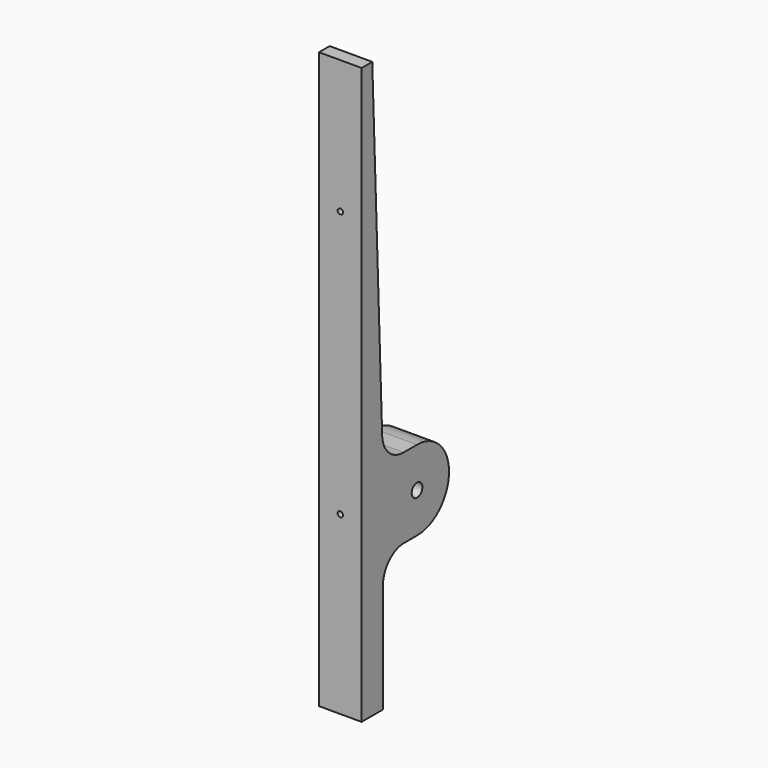
from build123d import *

# Parameters (mm, degrees)
F0_R     = 2.5
F1_DEPTH = 8
F2_R     = 1
F3_DEPTH = 26.001


with BuildPart() as f1:
    # F0 (on Right) → F1 (new body, symmetric)
    with BuildSketch(Plane.YZ):
        with BuildLine():
            Line((-26, -66), (-16, -66))
            Line((-16, -66), (-16, -25))
            ThreePointArc((-16, -25), (-13.071068, -17.928932), (-6, -15))
            Line((-6, -15), (0, -15))
            ThreePointArc((0, -15), (15, 0), (0, 15))
            Line((0, 15), (-6.363514, 15))
            ThreePointArc((-6.363514, 15), (-13.302492, 17.799265), (-16.356662, 24.629883))
            Line((-16.356662, 24.629883), (-21, 150))
            Line((-21, 150), (-26, 150))
            Line((-26, 150), (-26, -66))
        make_face()
        Circle(F0_R, mode=Mode.SUBTRACT)
    extrude(amount=F1_DEPTH, both=True)

    # F2 (on Front) → F3 (cut, through all)
    with BuildSketch(Plane.XZ):
        with Locations((0, -75)):
            Circle(F2_R)
        Circle(F2_R)
        with Locations((0, 100)):
            Circle(F2_R)
    extrude(amount=F3_DEPTH, mode=Mode.SUBTRACT)


solid = f1.part
